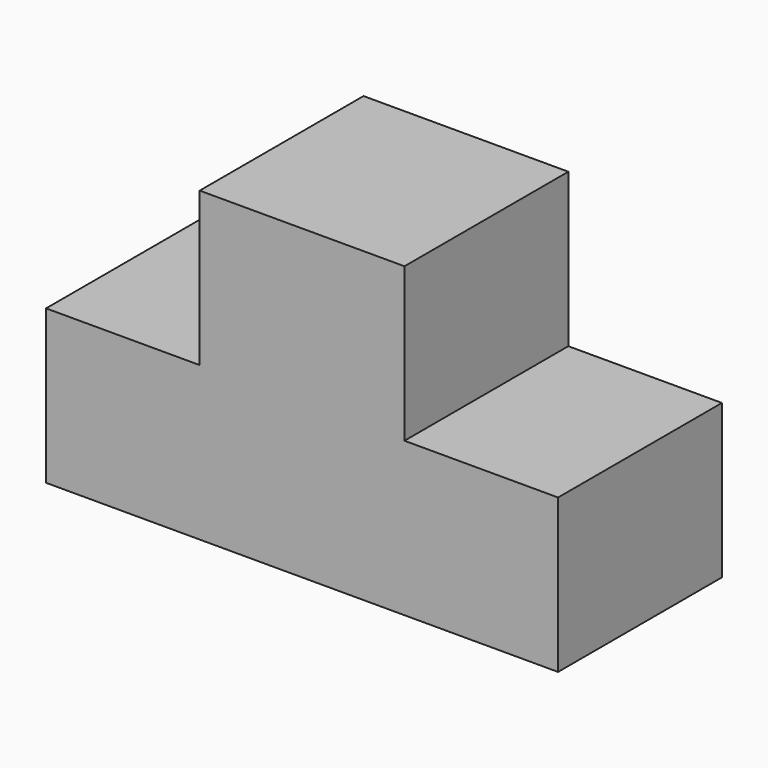
from build123d import *

# Parameters (mm, degrees)
F0_W     = 127
F0_H     = 50.8
F1_DEPTH = 38.1
F2_W     = 38.1
F2_H     = 50.8
F3_DEPTH = 25.4
F4_DEPTH = 38.1


with BuildPart() as f1:
    # F0 (on Top) → F1 (new body, symmetric)
    with BuildSketch(Plane.XY):
        Rectangle(F0_W, F0_H)
    extrude(amount=F1_DEPTH, both=True)

    # F2 (on face) → F3 (cut)
    with BuildSketch(Plane.XY.offset(38.1)):
        with Locations((-44.45, 0)):
            Rectangle(F2_W, F2_H)
        with Locations((44.45, 0)):
            Rectangle(F2_W, F2_H)
    extrude(amount=-F3_DEPTH, mode=Mode.SUBTRACT)

    # F2 (on face) → F4 (cut)
    with BuildSketch(Plane.XY.offset(38.1)):
        with Locations((-44.45, 0)):
            Rectangle(F2_W, F2_H)
        with Locations((44.45, 0)):
            Rectangle(F2_W, F2_H)
    extrude(amount=-F4_DEPTH, mode=Mode.SUBTRACT)


solid = f1.part
